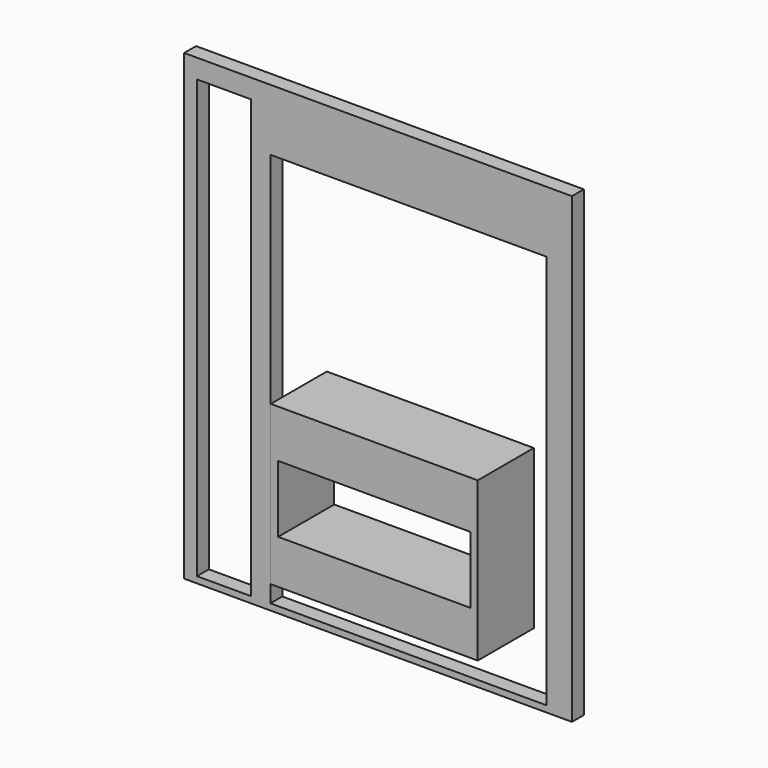
from build123d import *

# Parameters (mm, degrees)
F0_W     = 1238.25
F0_H     = 949.325
F0_W_2   = 1149.35
F0_H_2   = 400.05
F2_DEPTH = 419.1
F1_W     = 38.1
F1_H     = 2616.2
F1_H_2   = 2362.2
F1_W_2   = 2319.452508
F1_H_3   = 38.1
F1_W_3   = 39.802508
F3_DEPTH = 88.9


with BuildPart() as f2:
    # F0 (on Front) → F2 (new body)
    with BuildSketch(Plane.XZ):
        with Locations((0, 474.6625)):
            Rectangle(F0_W, F0_H)
        with Locations((0, 463.55)):
            Rectangle(F0_W_2, F0_H_2, mode=Mode.SUBTRACT)
    extrude(amount=-F2_DEPTH)


with BuildPart() as f3:
    # F1 (on Front) → F3 (new body)
    with BuildSketch(Plane.XZ):
        Polygon((1004.748238, 38.1), (-646.251762, 38.1), (-684.351762, 38.1), (-724.15427, 38.1), (-762.25427, 38.1), (-1086.10427, 38.1), (-1124.20427, 38.1), (-1162.30427, 38.1), (-1162.30427, 0), (1157.148238, 0), (1157.148238, 38.1), (1119.048238, 38.1), (1080.948238, 38.1), (1042.848238, 38.1), align=None)
        with Locations((1138.098238, 1346.2)):
            Rectangle(F1_W, F1_H)
        Polygon((1080.948238, 2400.3), (1080.948238, 38.1), (1119.048238, 38.1), (1119.048238, 2654.3), (1080.948238, 2654.3), align=None)
        with Locations((1061.898238, 1219.2)):
            Rectangle(F1_W, F1_H_2)
        with Locations((1023.798238, 1219.2)):
            Rectangle(F1_W, F1_H_2)
        with Locations((-2.578016, 2749.55)):
            Rectangle(F1_W_2, F1_H_3)
        with Locations((-2.578016, 2711.45)):
            Rectangle(F1_W_2, F1_H_3)
        Polygon((-762.25427, 2654.3), (-724.15427, 2654.3), (1080.948238, 2654.3), (1119.048238, 2654.3), (1157.148238, 2654.3), (1157.148238, 2692.4), (-1162.30427, 2692.4), (-1162.30427, 2654.3), (-1124.20427, 2654.3), (-1086.10427, 2654.3), align=None)
        Polygon((-684.351762, 2400.3), (-646.251762, 2400.3), (1004.748238, 2400.3), (1042.848238, 2400.3), (1080.948238, 2400.3), (1080.948238, 2654.3), (-724.15427, 2654.3), (-724.15427, 2400.3), align=None)
        with Locations((-665.301762, 1219.2)):
            Rectangle(F1_W, F1_H_2)
        with Locations((-704.253016, 1219.2)):
            Rectangle(F1_W_3, F1_H_2)
        Polygon((-762.25427, 38.1), (-724.15427, 38.1), (-724.15427, 2400.3), (-724.15427, 2654.3), (-762.25427, 2654.3), align=None)
        with Locations((-1105.15427, 1346.2)):
            Rectangle(F1_W, F1_H)
        with Locations((-1143.25427, 1346.2)):
            Rectangle(F1_W, F1_H)
    extrude(amount=-F3_DEPTH)


with BuildPart() as f2_1:
    # F4: moved
    add(f2.part.moved(Location((-25.4, 0, 139.7))))


solid = Compound([f3.part, f2_1.part])
